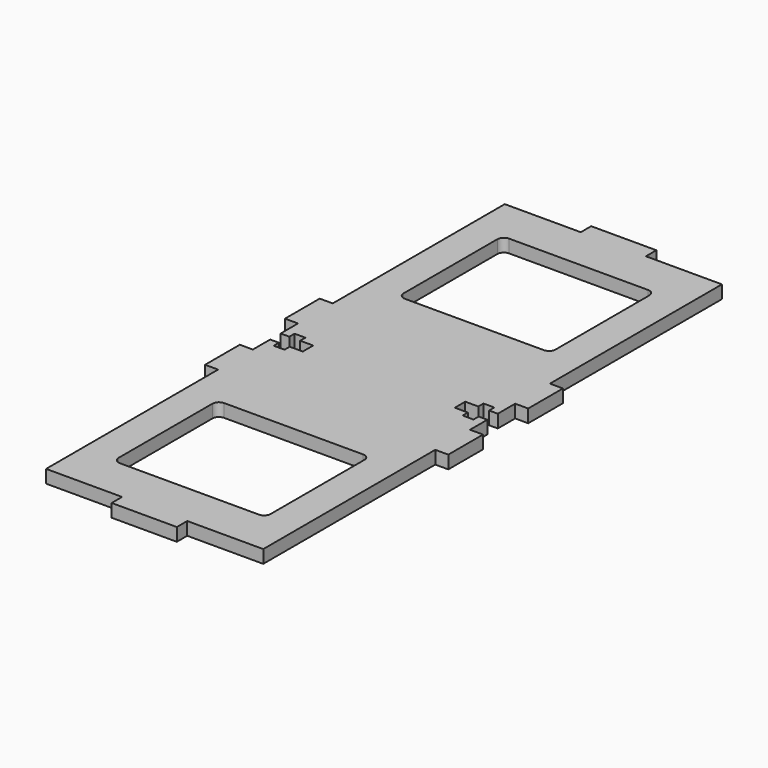
from build123d import *

# Parameters (mm, degrees)
F1_DEPTH = 3


with BuildPart() as f1:
    # F0 (on Top) → F1 (new body)
    with BuildSketch(Plane.XY):
        Polygon((-34.93066, -38.541029), (-34.93066, 10.958971), (-52.43066, 10.958971), (-52.43066, 13.958971), (-67.43066, 13.958971), (-67.43066, 10.958971), (-84.93066, 10.958971), (-84.93066, -38.541029), (-87.93066, -38.541029), (-87.93066, -48.541029), (-84.93066, -48.541029), (-84.93066, -53.541029), (-82.93066, -53.541029), (-82.93066, -52.041029), (-80.43066, -52.041029), (-80.43066, -53.541029), (-77.43066, -53.541029), (-77.43066, -56.541029), (-80.43066, -56.541029), (-80.43066, -58.041029), (-82.93066, -58.041029), (-82.93066, -56.541029), (-84.93066, -56.541029), (-84.93066, -61.541029), (-87.93066, -61.541029), (-87.93066, -71.541029), (-84.93066, -71.541029), (-84.93066, -121.041029), (-67.43066, -121.041029), (-67.43066, -124.041029), (-52.43066, -124.041029), (-52.43066, -121.041029), (-34.93066, -121.041029), (-34.93066, -71.541029), (-31.93066, -71.541029), (-31.93066, -61.541029), (-34.93066, -61.541029), (-34.93066, -56.541029), (-36.93066, -56.541029), (-36.93066, -58.041029), (-39.43066, -58.041029), (-39.43066, -56.541029), (-42.43066, -56.541029), (-42.43066, -53.541029), (-39.43066, -53.541029), (-39.43066, -52.041029), (-36.93066, -52.041029), (-36.93066, -53.541029), (-34.93066, -53.541029), (-34.93066, -48.541029), (-31.93066, -48.541029), (-31.93066, -38.541029), align=None)
        with BuildLine():
            Line((-75.93066, -81.041029), (-43.93066, -81.041029))
            ThreePointArc((-43.93066, -81.041029), (-42.869999, -81.480369), (-42.43066, -82.541029))
            Line((-42.43066, -82.541029), (-42.43066, -109.541029))
            ThreePointArc((-42.43066, -109.541029), (-42.869999, -110.601689), (-43.93066, -111.041029))
            Line((-43.93066, -111.041029), (-75.93066, -111.041029))
            ThreePointArc((-75.93066, -111.041029), (-76.99132, -110.601689), (-77.43066, -109.541029))
            Line((-77.43066, -109.541029), (-77.43066, -82.541029))
            ThreePointArc((-77.43066, -82.541029), (-76.99132, -81.480369), (-75.93066, -81.041029))
        make_face(mode=Mode.SUBTRACT)
        with BuildLine():
            ThreePointArc((-77.43066, -0.541029), (-76.99132, 0.519631), (-75.93066, 0.958971))
            Line((-75.93066, 0.958971), (-43.93066, 0.958971))
            ThreePointArc((-43.93066, 0.958971), (-42.869999, 0.519631), (-42.43066, -0.541029))
            Line((-42.43066, -0.541029), (-42.43066, -27.541029))
            ThreePointArc((-42.43066, -27.541029), (-42.869999, -28.601689), (-43.93066, -29.041029))
            Line((-43.93066, -29.041029), (-75.93066, -29.041029))
            ThreePointArc((-75.93066, -29.041029), (-76.99132, -28.601689), (-77.43066, -27.541029))
            Line((-77.43066, -27.541029), (-77.43066, -0.541029))
        make_face(mode=Mode.SUBTRACT)
    extrude(amount=F1_DEPTH)


solid = f1.part
